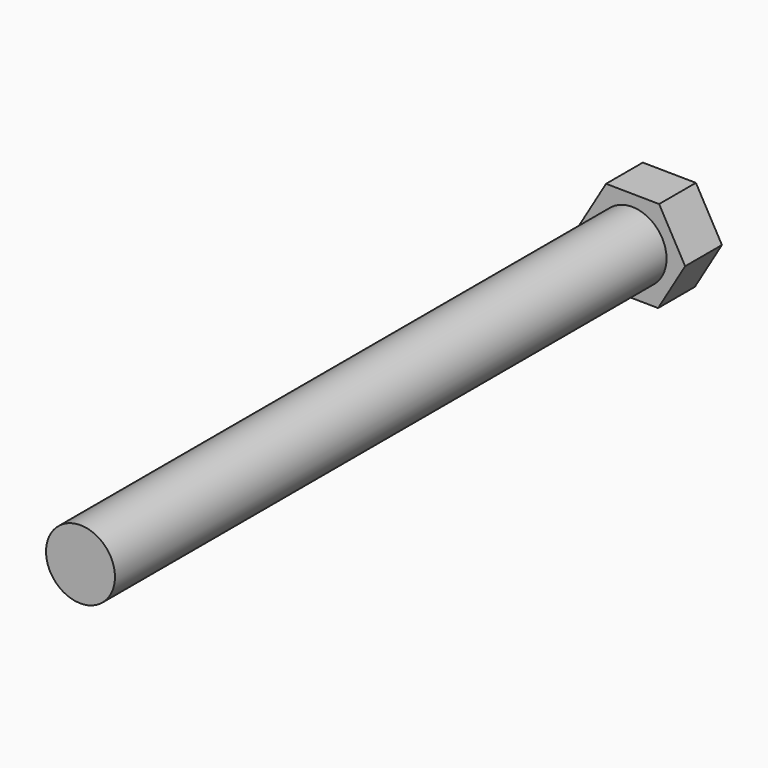
from build123d import *

# Parameters (mm, degrees)
F0_R     = 4.7625
F1_DEPTH = 101.6
F3_DEPTH = 6.35


with BuildPart() as f1:
    # F0 (on Front) → F1 (new body)
    with BuildSketch(Plane.XZ):
        Circle(F0_R)
    extrude(amount=F1_DEPTH)

    # F2 (on Front) → F3 (join)
    with BuildSketch(Plane.XZ):
        Polygon((7.331886, -0.082382), (3.737287, 6.308408), (-3.594598, 6.39079), (-7.331886, 0.082382), (-3.737287, -6.308408), (3.594598, -6.39079), align=None)
    extrude(amount=F3_DEPTH)


solid = f1.part
